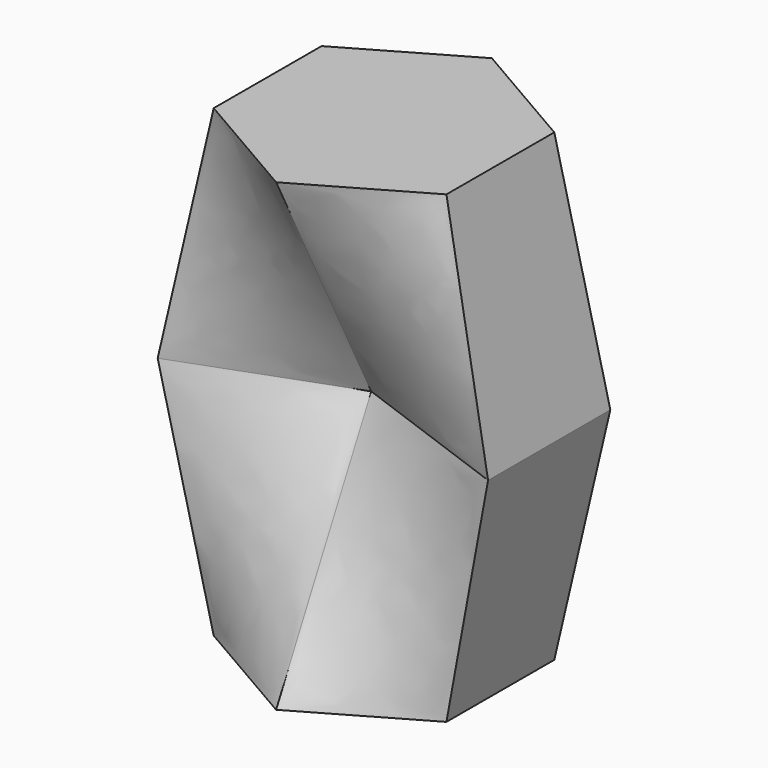
from build123d import *


with BuildPart() as f3:
    # F2 (on offset) → F3 section 0
    with BuildSketch(Plane.XY.offset(75.946)):
        Polygon((38.146824, 21.934064), (0.077956, 44.00315), (-38.068868, 22.069086), (-38.146824, -21.934064), (-0.077956, -44.00315), (38.068868, -22.069086), align=None)
    # F0 (on Top) → F3 section 1
    with BuildSketch(Plane.XY):
        Polygon((54.030817, -24.992749), (54.030817, 24.992749), (0, 5.899031), (-54.030817, 24.992749), (-54.030817, -24.992749), (0, -5.218831), align=None)
    loft()

    # F4: F3 across plane


with BuildPart() as f3_1:
    add(f3.part)
    add(f3.part.mirror(Plane.XY))


solid = f3_1.part
